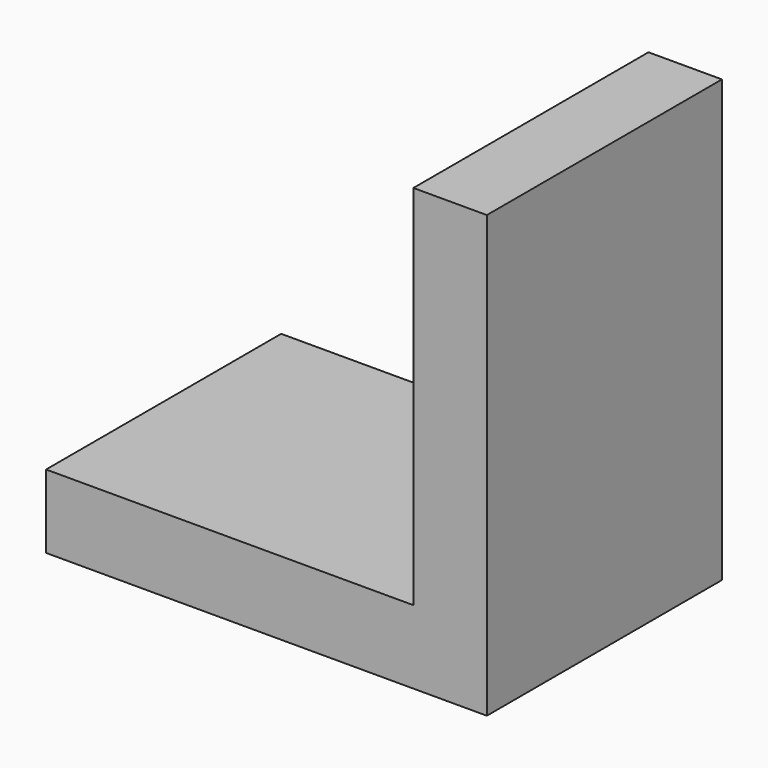
from build123d import *

# Parameters (mm, degrees)
PAD_DEPTH = 20


with BuildPart() as part:
    # Sketch → Pad (new body, symmetric)
    with BuildSketch(Plane.XZ):
        Polygon((-60, 0), (0, 0), (0, 60), (-10, 60), (-10, 10), (-60, 10), align=None)
    extrude(amount=PAD_DEPTH, both=True)


solid = part.part
